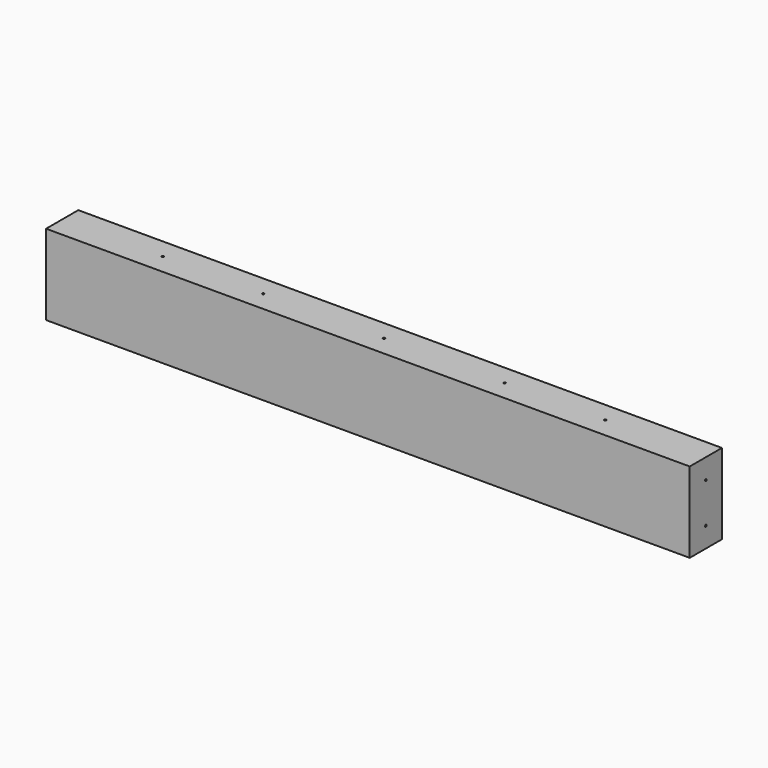
from build123d import *

# Parameters (mm, degrees)
F0_W     = 812.8
F0_H     = 50.8
F0_R     = 1.27
F1_DEPTH = 101.6
F2_R     = 1.27
F3_DEPTH = 812.801


with BuildPart() as f1:
    # F0 (on Top) → F1 (new body)
    with BuildSketch(Plane.XY):
        Rectangle(F0_W, F0_H)
        with Locations((-279.4, 0)):
            Circle(F0_R, mode=Mode.SUBTRACT)
        with Locations((-152.4, 0)):
            Circle(F0_R, mode=Mode.SUBTRACT)
        Circle(F0_R, mode=Mode.SUBTRACT)
        with Locations((152.4, 0)):
            Circle(F0_R, mode=Mode.SUBTRACT)
        with Locations((279.4, 0)):
            Circle(F0_R, mode=Mode.SUBTRACT)
    extrude(amount=F1_DEPTH)

    # F2 (on face) → F3 (cut, through all)
    with BuildSketch(Plane.YZ.offset(406.4)):
        with Locations((0, 76.2)):
            Circle(F2_R)
        with Locations((0, 25.4)):
            Circle(F2_R)
    extrude(amount=-F3_DEPTH, mode=Mode.SUBTRACT)


solid = f1.part
